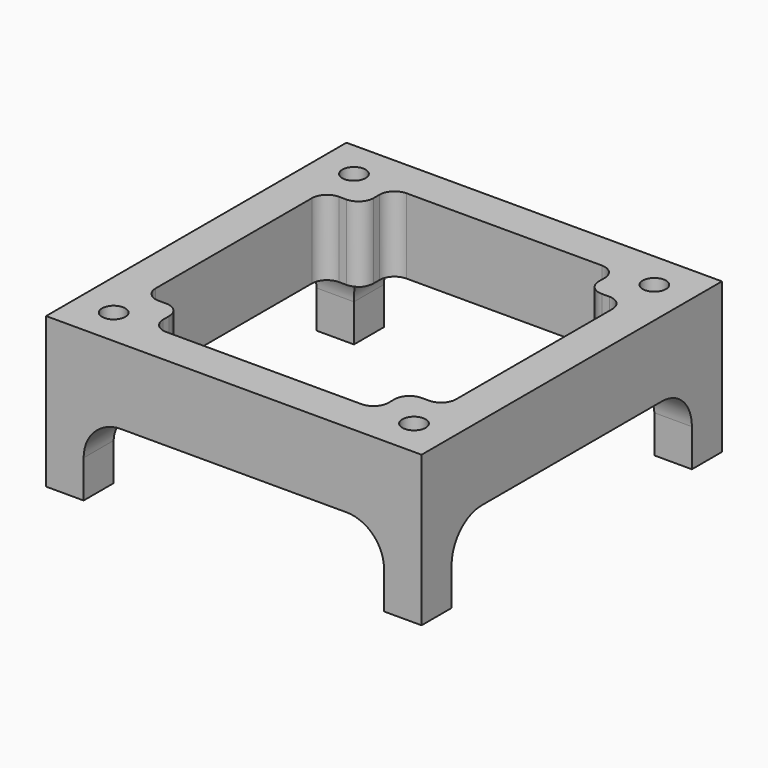
from build123d import *

# Parameters (mm, degrees)
SKETCH048_W             = 50
SKETCH048_H             = 50
PAD008_DEPTH            = 20
POCKET041_DEPTH         = 20.001
POCKET042_DEPTH         = 50.001
POCKET043_DEPTH         = 50.001
SKETCH052_R             = 1.55
POCKET044_DEPTH         = 5
SKETCH053_R             = 1.55
POCKET045_DEPTH         = 3
SKETCH054_R             = 1.55
POCKET046_DEPTH         = 3
BODY009_PLACEMENT_ANGLE = 90


with BuildPart() as part:
    # Sketch048 → Pad008 (new body)
    with BuildSketch(Plane.XY):
        Rectangle(SKETCH048_W, SKETCH048_H)
    extrude(amount=PAD008_DEPTH)

    # Sketch049 (on Face6 of Pad008) → Pocket041 (cut, through all)
    with BuildSketch(Plane.XY.offset(20)):
        with BuildLine():
            Line((-18, 15), (-17, 15))
            ThreePointArc((-17, 15), (-15.585786, 15.585786), (-15, 17))
            Line((-15, 17), (-15, 18))
            ThreePointArc((-13, 20), (-14.414214, 19.414214), (-15, 18))
            Line((-13, 20), (13, 20))
            ThreePointArc((15, 18), (14.414214, 19.414214), (13, 20))
            Line((15, 18), (15, 17))
            ThreePointArc((15, 17), (15.585786, 15.585786), (17, 15))
            Line((17, 15), (18, 15))
            ThreePointArc((20, 13), (19.414214, 14.414214), (18, 15))
            Line((20, 13), (20, -13))
            ThreePointArc((18, -15), (19.414214, -14.414214), (20, -13))
            Line((18, -15), (17, -15))
            ThreePointArc((17, -15), (15.585786, -15.585786), (15, -17))
            Line((15, -17), (15, -18))
            ThreePointArc((13, -20), (14.414214, -19.414214), (15, -18))
            Line((13, -20), (-13, -20))
            ThreePointArc((-15, -18), (-14.414214, -19.414214), (-13, -20))
            Line((-15, -18), (-15, -17))
            ThreePointArc((-15, -17), (-15.585786, -15.585786), (-17, -15))
            Line((-17, -15), (-18, -15))
            ThreePointArc((-20, -13), (-19.414214, -14.414214), (-18, -15))
            Line((-20, -13), (-20, 13))
            ThreePointArc((-18, 15), (-19.414214, 14.414214), (-20, 13))
        make_face()
    extrude(amount=-POCKET041_DEPTH, mode=Mode.SUBTRACT)

    # Sketch050 (on Face3 of Pocket041) → Pocket042 (cut, through all)
    with BuildSketch(Plane.YZ.offset(25)):
        with BuildLine():
            Line((-15, 10), (15, 10))
            ThreePointArc((20, 5), (18.535534, 8.535534), (15, 10))
            Line((20, 5), (20, 0))
            Line((20, 0), (-20, 0))
            Line((-20, 0), (-20, 5))
            ThreePointArc((-15, 10), (-18.535534, 8.535534), (-20, 5))
        make_face()
    extrude(amount=-POCKET042_DEPTH, mode=Mode.SUBTRACT)

    # Sketch051 (on Face6 of Pocket041) → Pocket043 (cut, through all)
    with BuildSketch(Plane.XZ.offset(25)):
        with BuildLine():
            Line((-15, 10), (15, 10))
            ThreePointArc((20, 5), (18.535534, 8.535534), (15, 10))
            Line((20, 5), (20, 0))
            Line((20, 0), (-20, 0))
            Line((-20, 0), (-20, 5))
            ThreePointArc((-15, 10), (-18.535534, 8.535534), (-20, 5))
        make_face()
    extrude(amount=-POCKET043_DEPTH, mode=Mode.SUBTRACT)

    # Sketch052 → Pocket044 (cut)
    with BuildSketch(Plane.XY.offset(20)):
        with Locations((-20, 20)):
            Circle(SKETCH052_R)
        with Locations((20, 20)):
            Circle(SKETCH052_R)
        with Locations((20, -20)):
            Circle(SKETCH052_R)
        with Locations((-20, -20)):
            Circle(SKETCH052_R)
    extrude(amount=-POCKET044_DEPTH, mode=Mode.SUBTRACT)

    # Sketch053 (on Face27 of Pocket044) → Pocket045 (cut)
    with BuildSketch(Plane.XZ.offset(25)):
        with Locations((-20, 14)):
            Circle(SKETCH053_R)
        with Locations((20, 14)):
            Circle(SKETCH053_R)
    extrude(amount=-POCKET045_DEPTH, mode=Mode.SUBTRACT)

    # Sketch054 (on Face11 of Pocket045) → Pocket046 (cut)
    with BuildSketch(Plane(origin=(-25, 0, 0), x_dir=(0, -1, 0), z_dir=(-1, 0, 0))):
        with Locations((-20, 14)):
            Circle(SKETCH054_R)
        with Locations((20, 14)):
            Circle(SKETCH054_R)
    extrude(amount=-POCKET046_DEPTH, mode=Mode.SUBTRACT)


with BuildPart() as part_1:
    # Body009 placement: moved
    add(part.part.moved(Location((25, 145, 0))).rotate(Axis((25, 145, 0), (0, 0, -1)), BODY009_PLACEMENT_ANGLE))


solid = part_1.part
